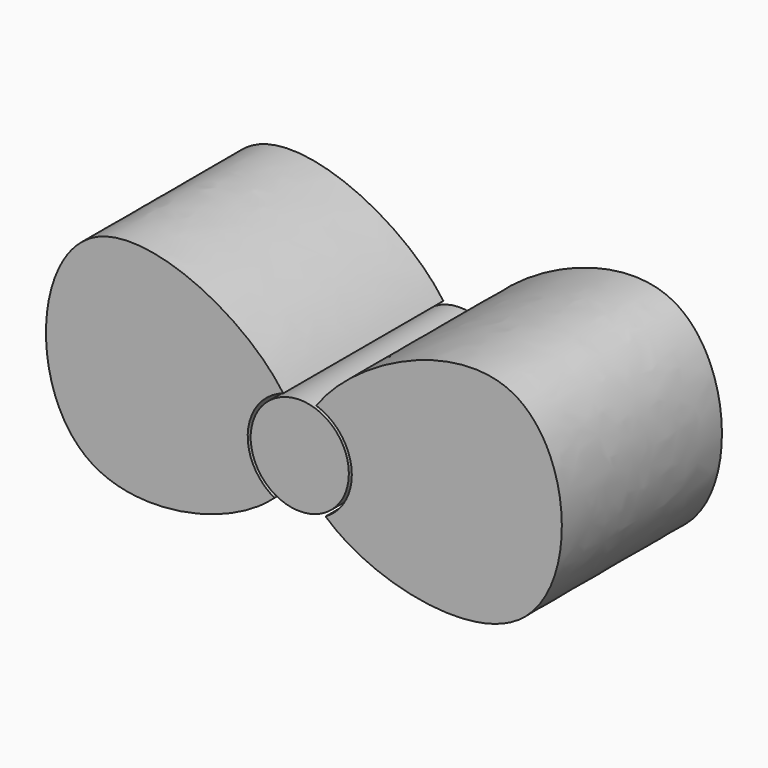
from build123d import *

# Parameters (mm, degrees)
F1_DEPTH = 25.4
F2_R     = 6.2322568569
F3_DEPTH = 25.4


with BuildPart() as f1:
    # F0 (on Front) → F1 (new body)
    with BuildSketch(Plane.XZ):
        with BuildLine():
            ThreePointArc((-3.2085554394, -5.7756240803), (-6.5789241531, 0.6086201709), (-2.0945574764, 6.2662181978))
            add(Edge.make_bspline(
                [(-2.0945574764, 6.2662181978), (-6.9454537614, 13.1970393513), (-33.2427230287, 26.129651708), (-35.0834992847, -16.8059078124), (-8.8469530023, -10.9745129071), (-3.2085554394, -5.7756240803)],
                knots=[0.0798754415, 0.0798754415, 0.0798754415, 0.0798754415, 0.3474462203, 0.6647469506, 0.9175166554, 0.9175166554, 0.9175166554, 0.9175166554], degree=3))
        make_face()
    extrude(amount=F1_DEPTH)


with BuildPart() as f1b:
    # F0 (on Front) → F1, piece 2 (new body)
    with BuildSketch(Plane.XZ):
        with BuildLine():
            ThreePointArc((2.0992928926, 6.2646333392), (5.3629620281, 3.858924696), (6.6070160832, 0))
            ThreePointArc((6.6070160832, 0), (5.7126878884, -3.3193159859), (3.2718165089, -5.7400242383))
            add(Edge.make_bspline(
                [(2.0992928926, 6.2646333392), (7.0386181498, 13.2301181091), (33.934870773, 26.1504942036), (36.5207778926, -16.9839897273), (9.1590263839, -11.0733462711), (3.2718165089, -5.7400242383)],
                knots=[0.0795338053, 0.0795338053, 0.0795338053, 0.0795338053, 0.3473613361, 0.6616357998, 0.9185194836, 0.9185194836, 0.9185194836, 0.9185194836], degree=3))
        make_face()
    extrude(amount=F1_DEPTH)


with BuildPart() as f3:
    # F2 (on Front) → F3 (new body)
    with BuildSketch(Plane.XZ):
        Circle(F2_R)
    extrude(amount=F3_DEPTH)


solid = Compound([f1.part, f1b.part, f3.part])
